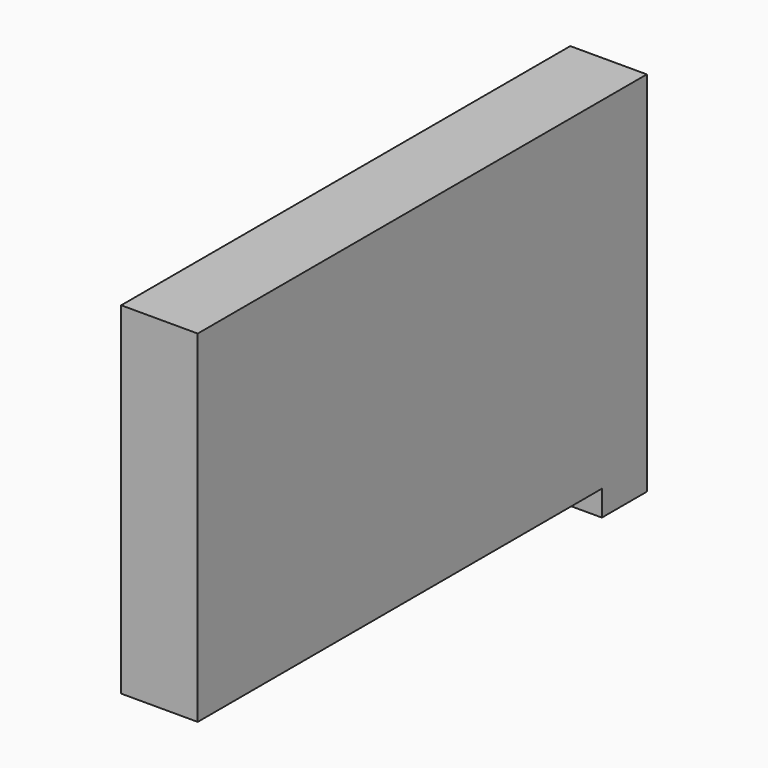
from build123d import *

# Parameters (mm, degrees)
F0_W     = 139.7
F0_H     = 91.44
F1_DEPTH = 19.05
F2_W     = 125.73
F2_H     = 6.35
F3_DEPTH = 25.4
F4_W     = 16.51
F4_H     = 88.9
F5_DEPTH = 12.7
F6_W     = 16.51
F6_H     = 82.55
F7_DEPTH = 125.73


with BuildPart() as f1:
    # F0 (on Right) → F1 (new body)
    with BuildSketch(Plane.YZ):
        Rectangle(F0_W, F0_H)
    extrude(amount=F1_DEPTH)

    # F2 (on face) → F3 (cut)
    with BuildSketch(Plane.YZ.offset(19.05)):
        with Locations((-6.985, -42.545)):
            Rectangle(F2_W, F2_H)
    extrude(amount=-F3_DEPTH, mode=Mode.SUBTRACT)

    # F4 (on face) → F5 (cut)
    with BuildSketch(Plane(origin=(0, 69.85, 0), x_dir=(-1, 0, 0), z_dir=(0, 1, 0))):
        with Locations((-9.525, 0)):
            Rectangle(F4_W, F4_H)
    extrude(amount=-F5_DEPTH, mode=Mode.SUBTRACT)

    # F6 (on face) → F7 (cut)
    with BuildSketch(Plane(origin=(0, 57.15, 0), x_dir=(-1, 0, 0), z_dir=(0, 1, 0))):
        with Locations((-9.525, 3.175)):
            Rectangle(F6_W, F6_H)
    extrude(amount=-F7_DEPTH, mode=Mode.SUBTRACT)


solid = f1.part
